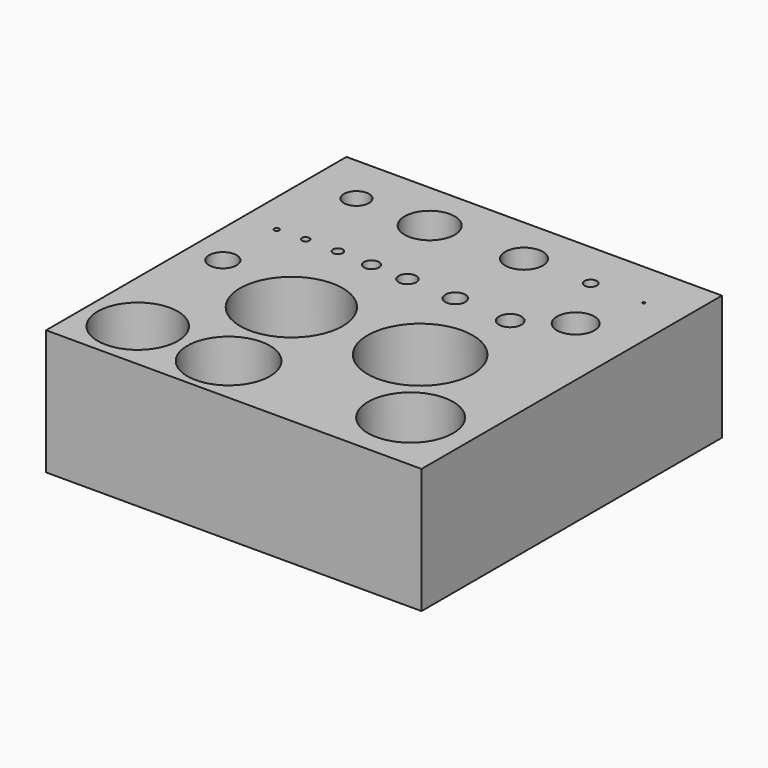
from build123d import *

# Parameters (mm, degrees)
F0_W     = 15
F0_H     = 15
F1_DEPTH = 5
F2_R     = 0.5
F2_R_2   = 1
F2_R_3   = 0.75
F2_R_4   = 0.25
F2_R_5   = 0.05
F2_R_6   = 0.1
F2_R_7   = 0.15
F2_R_8   = 0.2
F2_R_9   = 0.3
F2_R_10  = 0.35
F2_R_11  = 0.4
F2_R_12  = 0.45
F2_R_13  = 0.55
F2_R_14  = 2.05
F2_R_15  = 2.1
F2_R_16  = 1.6
F2_R_17  = 1.65
F2_R_18  = 1.7
F3_DEPTH = 25


with BuildPart() as f1:
    # F0 (on Top) → F1 (new body)
    with BuildSketch(Plane.XY):
        Rectangle(F0_W, F0_H)
    extrude(amount=F1_DEPTH)

    # F2 (on face) → F3 (cut)
    with BuildSketch(Plane.XY.offset(5)):
        with Locations((-5.5, 5.5)):
            Circle(F2_R)
        with Locations((-2.574738, 5.5)):
            Circle(F2_R_2)
        with Locations((1.121047, 5.589745)):
            Circle(F2_R_3)
        with Locations((3.786196, 5.589745)):
            Circle(F2_R_4)
        with Locations((5.905808, 5.589745)):
            Circle(F2_R_5)
        with Locations((-6.137199, 2.308721)):
            Circle(F2_R_6)
        with Locations((-5.017894, 2.35773)):
            Circle(F2_R_7)
        with Locations((-3.727555, 2.354539)):
            Circle(F2_R_8)
        with Locations((-2.337113, 2.297237)):
            Circle(F2_R_9)
        with Locations((-0.858002, 2.242322)):
            Circle(F2_R_10)
        with Locations((1.121047, 2.159437)):
            Circle(F2_R_11)
        with Locations((3.399892, 2.053818)):
            Circle(F2_R_12)
        with Locations((-6.149492, -0.361083)):
            Circle(F2_R_13)
        with Locations((-2.5, -1.5)):
            Circle(F2_R_14)
        with Locations((2.643554, -1.5)):
            Circle(F2_R_15)
        with Locations((-5.438604, -5.5)):
            Circle(F2_R_16)
        with Locations((-1.756351, -5.563046)):
            Circle(F2_R_17)
        with Locations((5.063551, -5)):
            Circle(F2_R_18)
        with Locations((5.115572, 3.179077)):
            Circle(F2_R_3)
    extrude(amount=-F3_DEPTH, mode=Mode.SUBTRACT)


solid = f1.part
